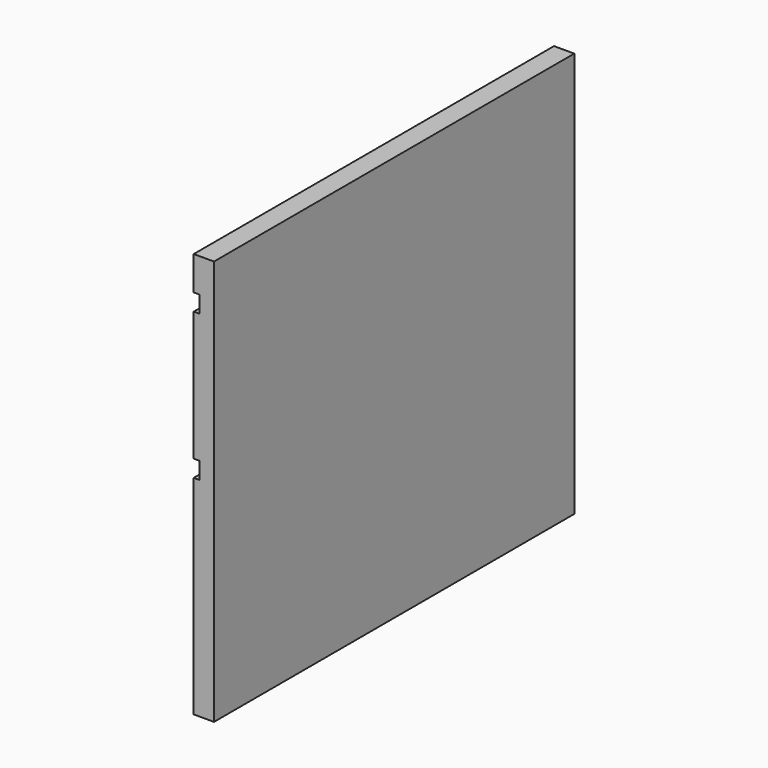
from build123d import *

# Parameters (mm, degrees)
F0_W     = 18
F0_H     = 360
F1_DEPTH = 400
F2_W     = 5
F2_H     = 15
F3_DEPTH = 400.001


with BuildPart() as f1:
    # F0 (on Front) → F1 (new body)
    with BuildSketch(Plane.XZ):
        with Locations((9, 180)):
            Rectangle(F0_W, F0_H)
    extrude(amount=-F1_DEPTH)

    # F2 (on face) → F3 (cut, through all)
    with BuildSketch(Plane.XZ):
        with Locations((2.5, 192.5)):
            Rectangle(F2_W, F2_H)
        with Locations((2.5, 322.5)):
            Rectangle(F2_W, F2_H)
    extrude(amount=-F3_DEPTH, mode=Mode.SUBTRACT)


solid = f1.part
